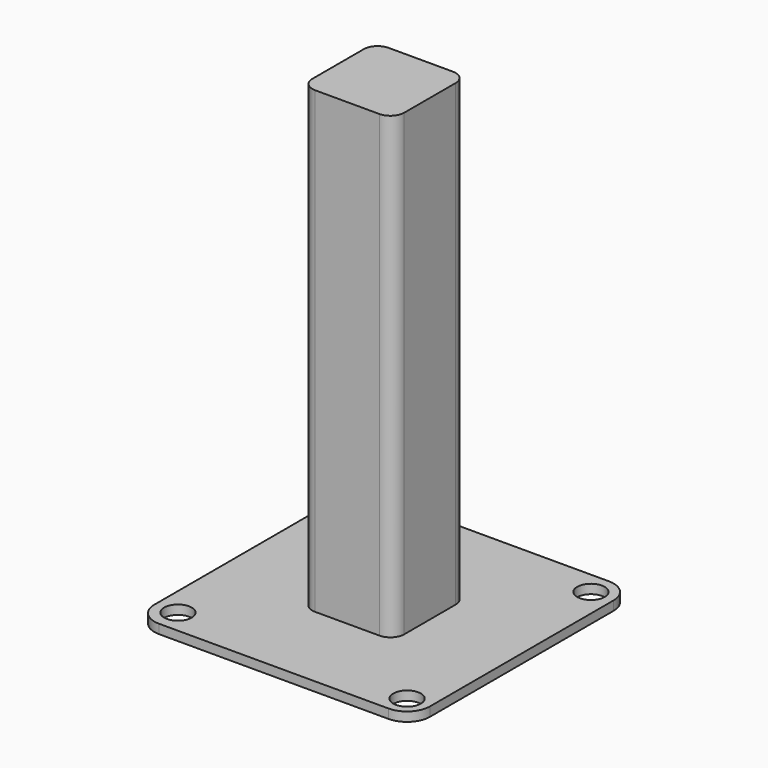
from build123d import *

# Parameters (mm, degrees)
SKETCH_W     = 20
SKETCH_H     = 20
PAD_DEPTH    = 100
FILLET_R     = 3
FILLET001_R  = 3
SKETCH001_W  = 60
SKETCH001_H  = 60
PAD001_DEPTH = 2
FILLET002_R  = 5
FILLET003_R  = 5
FILLET004_R  = 5
FILLET005_R  = 5
SKETCH002_R  = 3
HOLE_DEPTH   = 25
HOLE_TIPS_R  = 3


with BuildPart() as part:
    # Sketch → Pad (new body)
    with BuildSketch(Plane.XY):
        with Locations((10, -10)):
            Rectangle(SKETCH_W, SKETCH_H)
    extrude(amount=PAD_DEPTH)

    # Fillet
    fillet_edges = [part.edges().sort_by_distance(p)[0] for p in [
        (0, -20, 50),
        (20, 0, 50),
        (0, 0, 50),
    ]]
    fillet(fillet_edges, radius=FILLET_R)

    # Fillet001
    fillet001_edges = [part.edges().sort_by_distance(p)[0] for p in [
        (20, -20, 50),
    ]]
    fillet(fillet001_edges, radius=FILLET001_R)

    # Sketch001 (on Face1 of Fillet001) → Pad001 (join)
    with BuildSketch(Plane(origin=(0, 0, 0), x_dir=(1, 0, 0), z_dir=(0, 0, -1))):
        with Locations((10, 10)):
            Rectangle(SKETCH001_W, SKETCH001_H)
    extrude(amount=PAD001_DEPTH)

    # Fillet002
    fillet002_edges = [part.edges().sort_by_distance(p)[0] for p in [
        (-20, 20, -1),
    ]]
    fillet(fillet002_edges, radius=FILLET002_R)

    # Fillet003
    fillet003_edges = [part.edges().sort_by_distance(p)[0] for p in [
        (40, 20, -1),
    ]]
    fillet(fillet003_edges, radius=FILLET003_R)

    # Fillet004
    fillet004_edges = [part.edges().sort_by_distance(p)[0] for p in [
        (-20, -40, -1),
    ]]
    fillet(fillet004_edges, radius=FILLET004_R)

    # Fillet005
    fillet005_edges = [part.edges().sort_by_distance(p)[0] for p in [
        (40, -40, -1),
    ]]
    fillet(fillet005_edges, radius=FILLET005_R)

    # Sketch002 (on Face18 of Fillet005) → Hole (cut)
    with BuildSketch(Plane(origin=(0, 0, -2), x_dir=(1, 0, 0), z_dir=(0, 0, -1))):
        with Locations((-14.665156, -15.297529)):
            Circle(SKETCH002_R)
        with Locations((35.039818, -15.044578)):
            Circle(SKETCH002_R)
        with Locations((35.166283, 35.166294)):
            Circle(SKETCH002_R)
        with Locations((-15.044579, 34.786861)):
            Circle(SKETCH002_R)
    extrude(amount=-HOLE_DEPTH, mode=Mode.SUBTRACT)

    # Hole tips → Hole tip 1 section 0
    with BuildSketch(Plane(origin=(0, 0, 23), x_dir=(1, 0, 0), z_dir=(0, 0, -1)), mode=Mode.PRIVATE) as hole_tip_1_s0:
        with Locations((-14.665156, -15.297529)):
            Circle(HOLE_TIPS_R)
    loft([hole_tip_1_s0.sketch, Vertex(-14.665156, 15.297529, 24.802582)], mode=Mode.SUBTRACT)

    # Hole tips → Hole tip 2 section 0
    with BuildSketch(Plane(origin=(0, 0, 23), x_dir=(1, 0, 0), z_dir=(0, 0, -1)), mode=Mode.PRIVATE) as hole_tip_2_s0:
        with Locations((35.039818, -15.044578)):
            Circle(HOLE_TIPS_R)
    loft([hole_tip_2_s0.sketch, Vertex(35.039818, 15.044578, 24.802582)], mode=Mode.SUBTRACT)

    # Hole tips → Hole tip 3 section 0
    with BuildSketch(Plane(origin=(0, 0, 23), x_dir=(1, 0, 0), z_dir=(0, 0, -1)), mode=Mode.PRIVATE) as hole_tip_3_s0:
        with Locations((35.166283, 35.166294)):
            Circle(HOLE_TIPS_R)
    loft([hole_tip_3_s0.sketch, Vertex(35.166283, -35.166294, 24.802582)], mode=Mode.SUBTRACT)

    # Hole tips → Hole tip 4 section 0
    with BuildSketch(Plane(origin=(0, 0, 23), x_dir=(1, 0, 0), z_dir=(0, 0, -1)), mode=Mode.PRIVATE) as hole_tip_4_s0:
        with Locations((-15.044579, 34.786861)):
            Circle(HOLE_TIPS_R)
    loft([hole_tip_4_s0.sketch, Vertex(-15.044579, -34.786861, 24.802582)], mode=Mode.SUBTRACT)


solid = part.part
